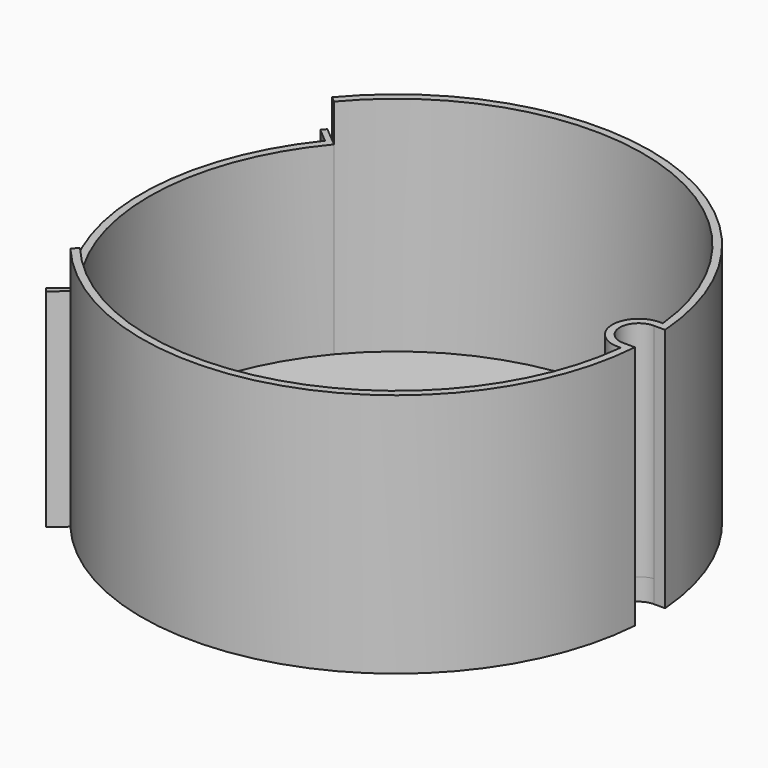
from build123d import *

# Parameters (mm, degrees)
F4_DEPTH = 65
F5_DEPTH = 55
F6_DEPTH = 65.001
F7_DEPTH = 22
F8_DEPTH = 4


with BuildPart() as f3:
    # F2 (on Front) → F3 (revolve)
    with BuildSketch(Plane.XZ):
        Polygon((-65.5, 0), (0, 0), (0, 2), (-65.5, 6), align=None)
    revolve(axis=Axis((0, 0, 1), (0, 0, -1)))

    # F0 (on Top) → F4 (join)
    with BuildSketch(Plane.XY):
        with BuildLine():
            ThreePointArc((-50.175911, 42.102588), (19.076579, 62.660467), (65.12488, 7))
            Line((65.12488, 7), (64.31456, 7))
            ThreePointArc((64.31456, 7), (57.31456, 0), (64.31456, -7))
            Line((64.31456, -7), (65.12488, -7))
            ThreePointArc((65.12488, -7), (19.076579, -62.660467), (-50.175911, -42.102588))
            Line((-50.175911, -42.102588), (-51.708, -43.388164))
            ThreePointArc((-51.708, -43.388164), (20.719651, -64.241311), (67.31456, -5))
            Line((67.31456, -5), (64.31456, -5))
            ThreePointArc((64.31456, -5), (59.31456, 0), (64.31456, 5))
            Line((64.31456, 5), (67.31456, 5))
            ThreePointArc((67.31456, 5), (20.719651, 64.241311), (-51.708, 43.388164))
            Line((-51.708, 43.388164), (-50.175911, 42.102588))
        make_face()
    extrude(amount=F4_DEPTH)

    # F0 (on Top) → F5 (join)
    with BuildSketch(Plane.XY):
        with BuildLine():
            Line((-55.537341, -46.601363), (-51.708, -43.388164))
            ThreePointArc((-51.708, -43.388164), (-52.186928, -42.810916), (-52.659412, -42.228383))
            Line((-52.659412, -42.228383), (-56.489635, -45.442321))
            ThreePointArc((-56.489635, -45.442321), (-56.016486, -46.024305), (-55.537341, -46.601363))
        make_face()
        with BuildLine():
            ThreePointArc((-50.175911, -42.102588), (-65.5, 0), (-50.175911, 42.102588))
            Line((-50.175911, 42.102588), (-51.708, 43.388164))
            ThreePointArc((-51.708, 43.388164), (-52.186928, 42.810916), (-52.659412, 42.228383))
            ThreePointArc((-52.659412, 42.228383), (-67.5, 0), (-52.659412, -42.228383))
            ThreePointArc((-52.659412, -42.228383), (-52.186928, -42.810916), (-51.708, -43.388164))
            Line((-51.708, -43.388164), (-50.175911, -42.102588))
        make_face()
        with BuildLine():
            ThreePointArc((-52.659412, 42.228383), (-52.186928, 42.810916), (-51.708, 43.388164))
            Line((-51.708, 43.388164), (-55.537341, 46.601363))
            ThreePointArc((-55.537341, 46.601363), (-56.016486, 46.024305), (-56.489635, 45.442321))
            Line((-56.489635, 45.442321), (-52.659412, 42.228383))
        make_face()
    extrude(amount=F5_DEPTH)

    # F0 (on Top) → F6 (cut, through all)
    with BuildSketch(Plane.XY):
        with BuildLine():
            ThreePointArc((67.31456, -5), (67.5, 0), (67.31456, 5))
            Line((67.31456, 5), (64.31456, 5))
            ThreePointArc((64.31456, 5), (59.31456, 0), (64.31456, -5))
            Line((64.31456, -5), (67.31456, -5))
        make_face()
    extrude(amount=F6_DEPTH, mode=Mode.SUBTRACT)

    # F1 (on Top) → F7 (join)
    with BuildSketch(Plane.XY):
        with BuildLine():
            Line((6.545644, -2.5), (4.400658, -2.5))
            ThreePointArc((4.400658, -2.5), (20, 0), (4.400658, 2.5))
            Line((4.400658, 2.5), (6.545644, 2.5))
            ThreePointArc((6.545644, 2.5), (18, 0), (6.545644, -2.5))
        make_face()
    extrude(amount=F7_DEPTH)

    # F1 (on Top) → F8 (join)
    with BuildSketch(Plane.XY):
        with BuildLine():
            ThreePointArc((4.400658, 2.5), (20, 0), (4.400658, -2.5))
            Line((4.400658, -2.5), (1.287857, -2.5))
            ThreePointArc((1.287857, -2.5), (23, 0), (1.287857, 2.5))
            Line((1.287857, 2.5), (4.400658, 2.5))
        make_face()
    extrude(amount=F8_DEPTH)


solid = f3.part
